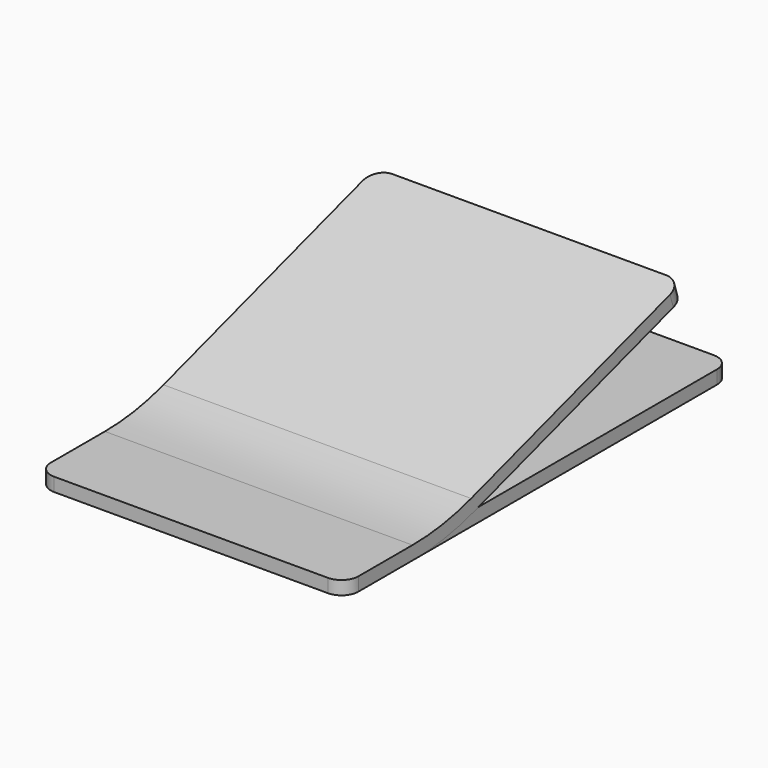
from build123d import *

# Parameters (mm, degrees)
F1_DEPTH = 2.4
F2_W     = 54.6
F2_H     = 2.4
F5_R     = 3


with BuildPart() as f1:
    # F0 (on Top) → F1 (new body)
    with BuildSketch(Plane.XY):
        with BuildLine():
            Line((51.6, 85.6), (3, 85.6))
            ThreePointArc((3, 85.6), (0.8786796564, 84.7213203436), (0, 82.6))
            Line((0, 82.6), (0, 3))
            ThreePointArc((0, 3), (0.8786796564, 0.8786796564), (3, 0))
            Line((3, 0), (51.6, 0))
            ThreePointArc((51.6, 0), (53.7213203436, 0.8786796564), (54.6, 3))
            Line((54.6, 3), (54.6, 82.6))
            ThreePointArc((54.6, 82.6), (53.7213203436, 84.7213203436), (51.6, 85.6))
        make_face()
    extrude(amount=F1_DEPTH)


with BuildPart() as f4:
    # F4: sweep along a path in F3
    with BuildLine(Plane.YZ.offset(54.6)) as f4_path:
        Line((0, 2.4), (15, 2.4))
        ThreePointArc((15, 2.4), (21.576473219, 2.9029240766), (28, 4.4))
        Line((28, 4.4), (75, 19.2121212121))
    # F2 (on face) → F4 (sweep)
    with BuildSketch(Plane.XZ):
        with Locations((27.3, 1.2)):
            Rectangle(F2_W, F2_H)
    sweep(path=f4_path.line)

    # F5
    f5_edges = [f4.edges().sort_by_distance(p)[0] for p in [
        (54.6, 0, 1.2),
        (0, 0, 1.2),
        (54.6, 75.360694, 18.067613),
        (0, 75.360694, 18.067613),
    ]]
    fillet(f5_edges, radius=F5_R)


solid = Compound([f1.part, f4.part])
